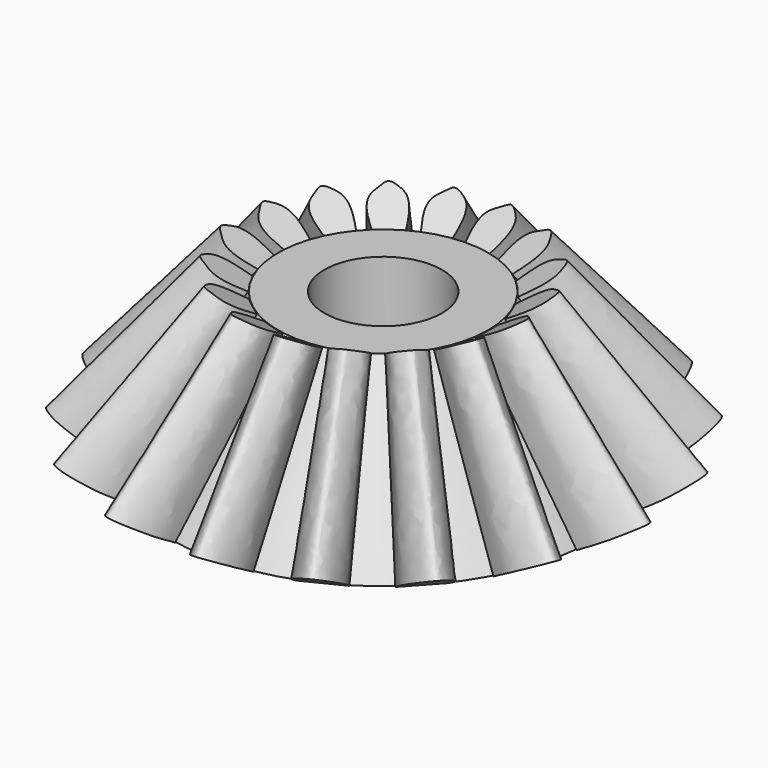
from build123d import *

# Parameters (mm, degrees)
F0_R      = 14.58885
F2_R      = 7.1635
F4_R      = 4.015
F5_DEPTH  = 25
F14_COUNT = 17


with BuildPart() as f3:
    # F0 (on Top) → F3 section 0
    with BuildSketch(Plane.XY):
        Circle(F0_R)
    # F2 (on offset) → F3 section 1
    with BuildSketch(Plane.XY.offset(10.123)):
        Circle(F2_R)
    loft()

    # F4 (on offset) → F5 (cut)
    with BuildSketch(Plane.XY.offset(10.123)):
        Circle(F4_R)
    extrude(amount=-F5_DEPTH, mode=Mode.SUBTRACT)


with BuildPart() as f12:
    # F10 (on offset) → F12 section 0
    with BuildSketch(Plane(origin=(3.64725, 0, -6.3172223079), x_dir=(0.8660254038, 0, 0.5), z_dir=(0.5, 0, -0.8660254038))):
        with BuildLine():
            add(Edge.make_bspline(
                [(12.533239089, 1.6375287669), (13.0800117672, 1.6440598793), (14.0714214531, 1.6559021097), (15.0690145338, 1.3414121994), (16.0620821504, 0.8075120026), (16.9724335274, 0.011715865), (16.1081254207, -0.8347632783), (15.0570834222, -1.2078051378), (14.0681475378, -1.4822894788), (13.0803664996, -1.3594868237), (12.533239089, -1.2914669933)],
                knots=[0, 0, 0, 0, 0.1445754359, 0.262144568, 0.388136793, 0.5017296404, 0.6140011989, 0.7387219978, 0.8552793066, 1, 1, 1, 1], degree=3))
            Line((12.533239089, 1.6375287669), (12.533239089, -1.2914669933))
        make_face()
    # F11 (on offset) → F12 section 1
    with BuildSketch(Plane(origin=(-2.58275, 0, 4.4734542232), x_dir=(0.8660254038, 0, 0.5), z_dir=(0.5, 0, -0.8660254038))):
        with BuildLine():
            Line((11.1538106576, 0.9998318274), (11.1959120259, -0.8110409835))
            add(Edge.make_bspline(
                [(11.1959120259, -0.8110409835), (11.6961356979, -0.9513617803), (12.5826832282, -1.2000526416), (13.5202375357, -1.0330130602), (13.998427275, -0.454172819), (14.493998688, -0.0152740354), (14.0311148775, 0.5734274029), (13.5556608816, 1.054861991), (12.5156949716, 1.2245070371), (11.6341435071, 1.0790741555), (11.1538106576, 0.9998318274)],
                knots=[0, 0, 0, 0, 0.1606641908, 0.284745504, 0.3990107038, 0.4968619445, 0.6008853416, 0.710327486, 0.8421655119, 1, 1, 1, 1], degree=3))
        make_face()
    loft()


with BuildPart() as f14_1:
    # F14: instance of F12
    add(f12.part.rotate(Axis((0, 0, -0.3889109939), (0, 0, -1)), 1 * 360 / F14_COUNT))


with BuildPart() as f14_2:
    # F14: instance of F12
    add(f12.part.rotate(Axis((0, 0, -0.3889109939), (0, 0, -1)), 2 * 360 / F14_COUNT))


with BuildPart() as f14_3:
    # F14: instance of F12
    add(f12.part.rotate(Axis((0, 0, -0.3889109939), (0, 0, -1)), 3 * 360 / F14_COUNT))


with BuildPart() as f14_4:
    # F14: instance of F12
    add(f12.part.rotate(Axis((0, 0, -0.3889109939), (0, 0, -1)), 4 * 360 / F14_COUNT))


with BuildPart() as f14_5:
    # F14: instance of F12
    add(f12.part.rotate(Axis((0, 0, -0.3889109939), (0, 0, -1)), 5 * 360 / F14_COUNT))


with BuildPart() as f14_6:
    # F14: instance of F12
    add(f12.part.rotate(Axis((0, 0, -0.3889109939), (0, 0, -1)), 6 * 360 / F14_COUNT))


with BuildPart() as f14_7:
    # F14: instance of F12
    add(f12.part.rotate(Axis((0, 0, -0.3889109939), (0, 0, -1)), 7 * 360 / F14_COUNT))


with BuildPart() as f14_8:
    # F14: instance of F12
    add(f12.part.rotate(Axis((0, 0, -0.3889109939), (0, 0, -1)), 8 * 360 / F14_COUNT))


with BuildPart() as f14_9:
    # F14: instance of F12
    add(f12.part.rotate(Axis((0, 0, -0.3889109939), (0, 0, -1)), 9 * 360 / F14_COUNT))


with BuildPart() as f14_10:
    # F14: instance of F12
    add(f12.part.rotate(Axis((0, 0, -0.3889109939), (0, 0, -1)), 10 * 360 / F14_COUNT))


with BuildPart() as f14_11:
    # F14: instance of F12
    add(f12.part.rotate(Axis((0, 0, -0.3889109939), (0, 0, -1)), 11 * 360 / F14_COUNT))


with BuildPart() as f14_12:
    # F14: instance of F12
    add(f12.part.rotate(Axis((0, 0, -0.3889109939), (0, 0, -1)), 12 * 360 / F14_COUNT))


with BuildPart() as f14_13:
    # F14: instance of F12
    add(f12.part.rotate(Axis((0, 0, -0.3889109939), (0, 0, -1)), 13 * 360 / F14_COUNT))


with BuildPart() as f14_14:
    # F14: instance of F12
    add(f12.part.rotate(Axis((0, 0, -0.3889109939), (0, 0, -1)), 14 * 360 / F14_COUNT))


with BuildPart() as f14_15:
    # F14: instance of F12
    add(f12.part.rotate(Axis((0, 0, -0.3889109939), (0, 0, -1)), 15 * 360 / F14_COUNT))


with BuildPart() as f14_16:
    # F14: instance of F12
    add(f12.part.rotate(Axis((0, 0, -0.3889109939), (0, 0, -1)), 16 * 360 / F14_COUNT))


solid = Compound([f3.part, f12.part, f14_1.part, f14_2.part, f14_3.part, f14_4.part, f14_5.part, f14_6.part, f14_7.part, f14_8.part, f14_9.part, f14_10.part, f14_11.part, f14_12.part, f14_13.part, f14_14.part, f14_15.part, f14_16.part])
